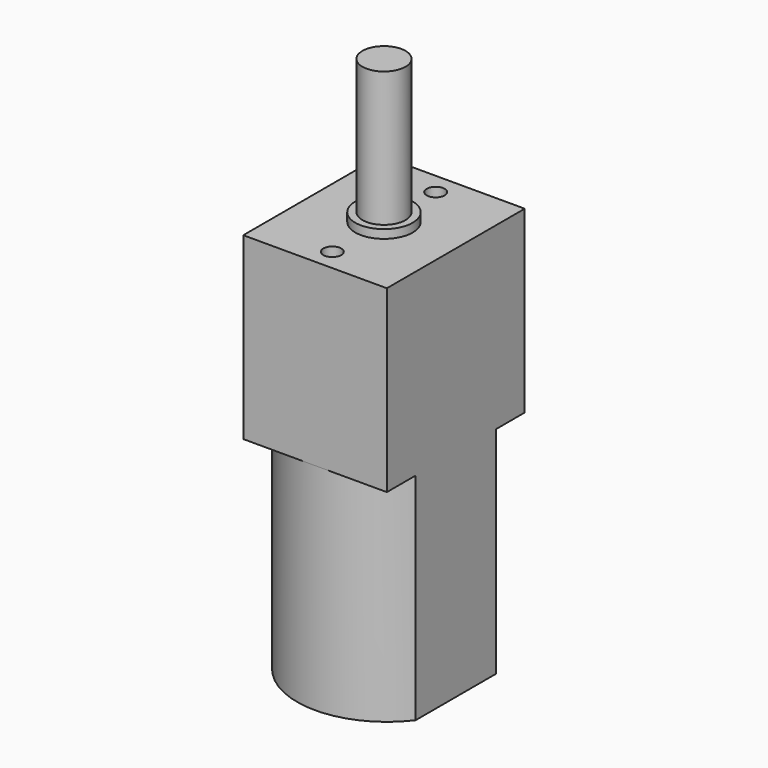
from build123d import *

# Parameters (mm, degrees)
PAD_DEPTH    = 15
SKETCH001_W  = 10
SKETCH001_H  = 12
PAD001_DEPTH = 12.5
SKETCH002_R  = 0.625
POCKET_DEPTH = 5
SKETCH003_R  = 2
PAD002_DEPTH = 0.6
SKETCH004_R  = 1.5
PAD003_DEPTH = 9.4


with BuildPart() as part:
    # Sketch → Pad (new body)
    with BuildSketch(Plane.XY):
        with BuildLine():
            Line((-5, 3.5), (-5, -3.5))
            ThreePointArc((-5, -3.5), (0, -6), (5, -3.5))
            Line((5, 3.5), (5, -3.5))
            ThreePointArc((5, 3.5), (0, 6), (-5, 3.5))
        make_face()
    extrude(amount=PAD_DEPTH)

    # Sketch001 → Pad001 (new body)
    with BuildSketch(Plane.XY.offset(15)):
        Rectangle(SKETCH001_W, SKETCH001_H)
    extrude(amount=PAD001_DEPTH)

    # Sketch002 → Pocket (cut)
    with BuildSketch(Plane.XY.offset(27.5)):
        with Locations((0, -4.5)):
            Circle(SKETCH002_R)
        with Locations((0, 4.5)):
            Circle(SKETCH002_R)
    extrude(amount=-POCKET_DEPTH, mode=Mode.SUBTRACT)

    # Sketch003 → Pad002 (new body)
    with BuildSketch(Plane.XY.offset(27.5)):
        Circle(SKETCH003_R)
    extrude(amount=PAD002_DEPTH)

    # Sketch004 → Pad003 (new body)
    with BuildSketch(Plane.XY.offset(28.1)):
        Circle(SKETCH004_R)
    extrude(amount=PAD003_DEPTH)


solid = part.part
